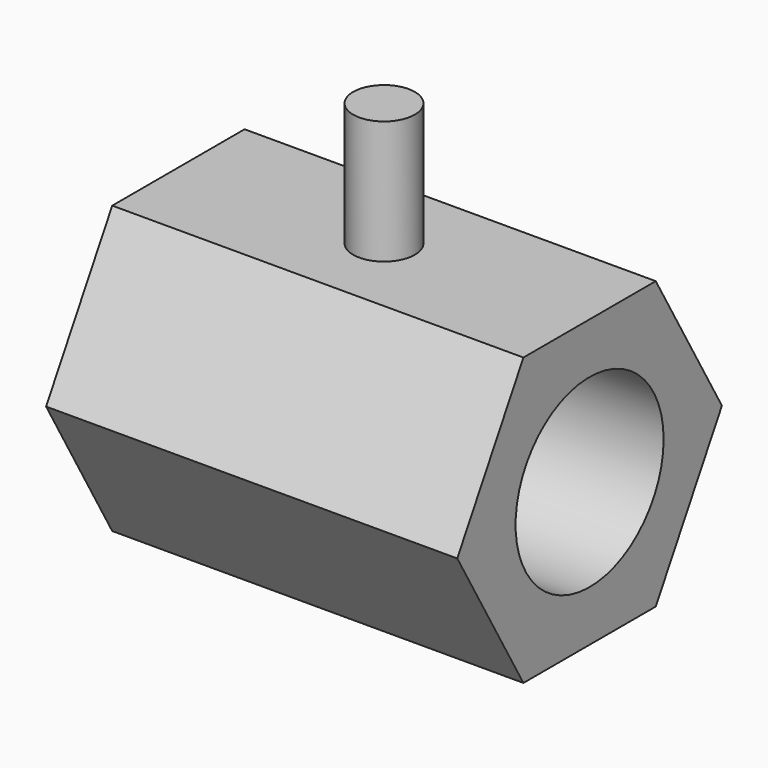
from build123d import *

# Parameters (mm, degrees)
F0_R     = 9
F1_DEPTH = 40
F3_R     = 3
F4_DEPTH = 12


with BuildPart() as f1:
    # F0 (on Right) → F1 (new body)
    with BuildSketch(Plane.YZ):
        Polygon((8.0459182105, 13.9359391342), (-8.0459182105, 13.9359391342), (-16.0918364211, 0), (-8.0459182105, -13.9359391342), (8.0459182105, -13.9359391342), (16.0918364211, 0), align=None)
        Circle(F0_R, mode=Mode.SUBTRACT)
    extrude(amount=-F1_DEPTH)

    # F3 (on offset) → F4 (join)
    with BuildSketch(Plane.XY.offset(13.9359391342)):
        with Locations((-20, 0)):
            Circle(F3_R)
    extrude(amount=F4_DEPTH)


solid = f1.part
